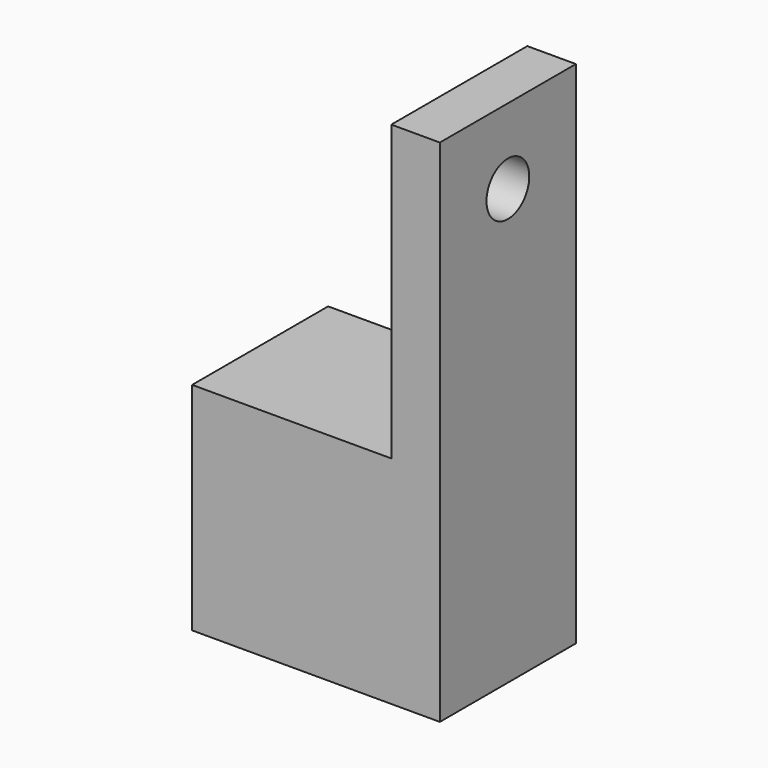
from build123d import *

# Parameters (mm, degrees)
CYLINDER104_R     = 1.1
CYLINDER104_DEPTH = 21
BOX102_W          = 2
BOX102_H          = 7
BOX102_DEPTH      = 21
BOX100_W          = 8.2
BOX100_H          = 7
BOX100_DEPTH      = 8.9


with BuildPart() as cylinder104:
    # Cylinder104 → Cylinder104 (new body)
    with BuildSketch(Plane(origin=(7, 18.5, 71), x_dir=(0, 0, -1), z_dir=(1, 0, 0))):
        Circle(CYLINDER104_R)
    extrude(amount=CYLINDER104_DEPTH)


with BuildPart() as cut068:
    # Box102 → Box102 (new body)
    with BuildSketch(Plane(origin=(12, 15, 53.1), x_dir=(1, 0, 0), z_dir=(0, 0, 1))):
        with Locations((1, 3.5)):
            Rectangle(BOX102_W, BOX102_H)
    extrude(amount=BOX102_DEPTH)

    # Cut068: cut Cylinder104
    add(cylinder104.part, mode=Mode.SUBTRACT)


with BuildPart() as cap:
    # Box100 → Box100 (new body)
    with BuildSketch(Plane(origin=(3.8, 15, 53.1), x_dir=(1, 0, 0), z_dir=(0, 0, 1))):
        with Locations((4.1, 3.5)):
            Rectangle(BOX100_W, BOX100_H)
    extrude(amount=BOX100_DEPTH)

    # Fusion088: union Cut068
    add(cut068.part)


solid = cap.part
